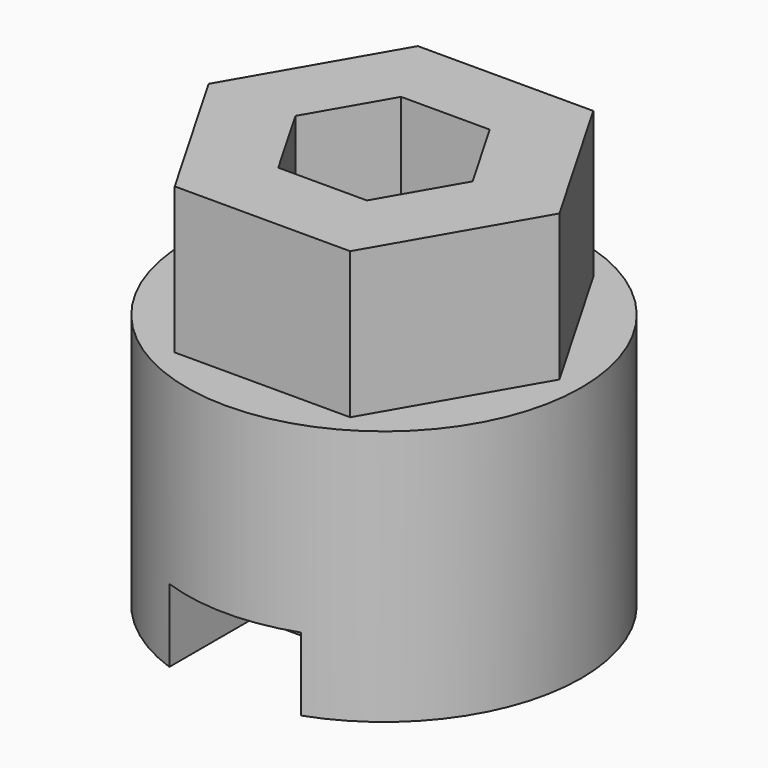
from build123d import *

# Parameters (mm, degrees)
SKETCH_R        = 13.5
PAD_DEPTH       = 17.5
PAD001_DEPTH    = 10
POCKET_DEPTH    = 12
POCKET001_DEPTH = 5


with BuildPart() as part:
    # Sketch → Pad (new body)
    with BuildSketch(Plane.XY):
        Circle(SKETCH_R)
    extrude(amount=PAD_DEPTH)

    # Sketch001 (on Face3 of Pad) → Pad001 (join)
    with BuildSketch(Plane.XY.offset(17.5)):
        Polygon((12, 0), (6, 10.392305), (-6, 10.392305), (-12, 0), (-6, -10.392305), (6, -10.392305), align=None)
    extrude(amount=PAD001_DEPTH)

    # Sketch002 (on Face10 of Pad001) → Pocket (cut)
    with BuildSketch(Plane.XY.offset(27.5)):
        Polygon((6.062178, 0), (3.031089, 5.25), (-3.031089, 5.25), (-6.062178, 0), (-3.031089, -5.25), (3.031089, -5.25), align=None)
    extrude(amount=-POCKET_DEPTH, mode=Mode.SUBTRACT)

    # Sketch003 (on Face2 of Pocket) → Pocket001 (cut)
    with BuildSketch(Plane(origin=(0, 0, 0), x_dir=(1, 0, 0), z_dir=(0, 0, -1))):
        with BuildLine():
            Line((-4.5, 12.727922), (-4.5, 5.5))
            Line((-4.5, 5.5), (4.5, 5.5))
            Line((4.5, 5.5), (4.5, 12.727922))
            ThreePointArc((4.5, 12.727922), (0, 13.5), (-4.5, 12.727922))
        make_face()
        with BuildLine():
            Line((-4.5, -5.5), (4.5, -5.5))
            Line((4.5, -5.5), (4.5, -12.727922))
            ThreePointArc((-4.5, -12.727922), (0, -13.5), (4.5, -12.727922))
            Line((-4.5, -12.727922), (-4.5, -5.5))
        make_face()
    extrude(amount=-POCKET001_DEPTH, mode=Mode.SUBTRACT)


solid = part.part
